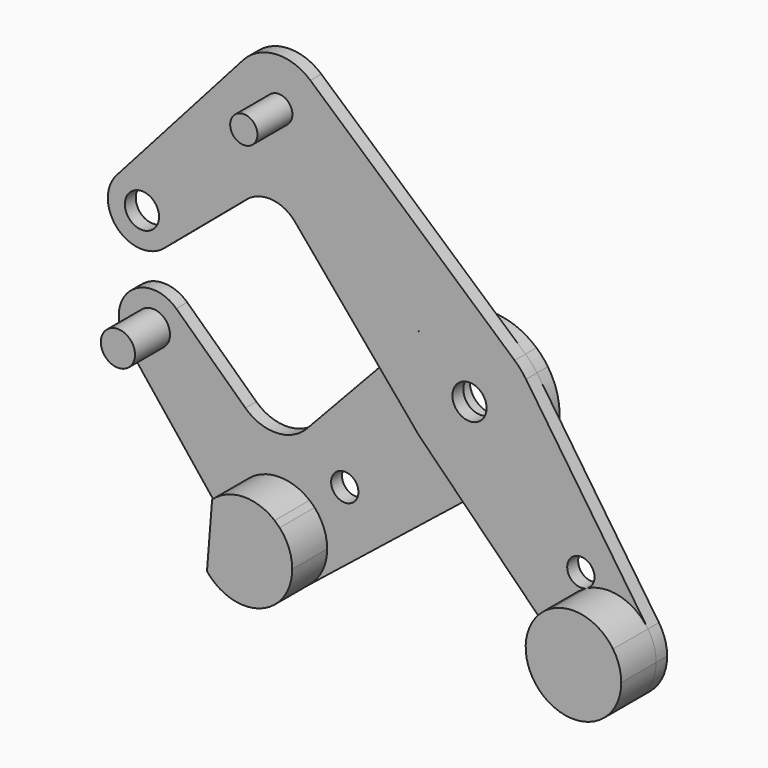
from build123d import *

# Parameters (mm, degrees)
F0_R     = 5.0192058749
F0_R_2   = 3.175
F0_R_3   = 3.9751
F1_DEPTH = 3.175
F2_DEPTH = 3.175
F4_DEPTH = 10.16
F3_R     = 3.175


with BuildPart() as f1:
    # F0 (on Front) → F1 (new body)
    with BuildSketch(Plane.XZ):
        with BuildLine():
            ThreePointArc((-82.0976157368, 19.6705019026), (-73.3433813158, 21.8204159254), (-68.2247198605, 14.4003043691))
            ThreePointArc((-68.2247198605, 14.4003043691), (-68.9624069762, 11.0586579663), (-71.0383515282, 8.338136476))
            Line((-71.0383515282, 8.338136476), (-51.7880564857, 24.6088796977))
            ThreePointArc((-51.7880564857, 24.6088796977), (-45.9772663096, 26.4581873904), (-40.5657834324, 23.6473023906))
            Line((-40.5657834324, 23.6473023906), (-21.1969376927, 0.5644108959))
            Line((-21.1969376927, 0.5644108959), (-12.0653977726, 10.3170636127))
            ThreePointArc((-12.0653977726, 10.3170636127), (-11.5882615315, 10.8502451437), (-11.0875850339, 11.361385616))
            ThreePointArc((-11.0875850339, 11.361385616), (-0.4022179292, 15.8699037722), (10.4978177794, 11.9084611462))
            Line((10.4978177794, 11.9084611462), (-37.0018676901, 53.7814652664))
            ThreePointArc((-37.0018676901, 53.7814652664), (-34.2224687823, 50.0187118354), (-33.2378401357, 45.445542464))
            ThreePointArc((-33.2378401357, 45.445542464), (-34.2706020977, 40.7672375001), (-37.1769244705, 36.9585074138))
            ThreePointArc((-37.1769244705, 36.9585074138), (-52.3033100669, 37.6842329403), (-52.6598943624, 52.8238190109))
            Line((-52.6598943624, 52.8238190109), (-82.0976157368, 19.6705019026))
        make_face()
        with BuildLine():
            ThreePointArc((13.1435640732, 8.9029404386), (11.9158307581, 10.4894519563), (10.4978177794, 11.9084611462))
            ThreePointArc((10.4978177794, 11.9084611462), (-0.4022179292, 15.8699037722), (-11.0875850339, 11.361385616))
            Line((-11.0875850339, 11.361385616), (-12.0653977726, 10.3170636127))
            ThreePointArc((-12.0653977726, 10.3170636127), (-15.8748278931, 0.0739213292), (-12.1609555345, -10.2042533038))
            ThreePointArc((-12.1609555345, -10.2042533038), (-11.7163487615, -10.7118064163), (-11.2505755155, -11.2000078379))
            ThreePointArc((-11.2505755155, -11.2000078379), (-2.5540891897, -15.6681924105), (7.1112039196, -14.1931815959))
            Line((7.1112039196, -14.1931815959), (12.2683930928, -10.0748278358))
            ThreePointArc((12.2683930928, -10.0748278358), (14.946176189, -5.3504618797), (15.875, 0))
            ThreePointArc((15.875, 0), (15.1767866273, 4.6562616624), (13.1435640732, 8.9029404386))
        make_face()
        Circle(F0_R, mode=Mode.SUBTRACT)
        with BuildLine():
            Line((41.5074995689, -32.9712253077), (13.1435640732, 8.9029404386))
            ThreePointArc((13.1435640732, 8.9029404386), (15.1767866273, 4.6562616624), (15.875, 0))
            ThreePointArc((15.875, 0), (14.946176189, -5.3504618797), (12.2683930928, -10.0748278358))
            ThreePointArc((12.2683930928, -10.0748278358), (9.9061801172, -12.404967573), (7.1112039196, -14.1931815959))
            Line((7.1112039196, -14.1931815959), (-1.4583015008, -21.036493657))
            Line((-1.4583015008, -21.036493657), (24.4316018567, -47.0432891013))
            ThreePointArc((24.4316018567, -47.0432891013), (21.3386504244, -37.419226343), (27.3222694847, -29.2715128306))
            ThreePointArc((27.3222694847, -29.2715128306), (35.111487806, -28.4504918444), (41.5074995689, -32.9712253077))
        make_face()
        with BuildLine():
            ThreePointArc((29.0730594479, -26.4338640203), (28.6001412256, -28.1010110043), (27.3222694847, -29.2715128306))
            ThreePointArc((27.3222694847, -29.2715128306), (23.1959776702, -24.7667170362), (29.0730594479, -26.4338640203))
        make_face(mode=Mode.SUBTRACT)
        with BuildLine():
            ThreePointArc((-37.0018676901, 53.7814652664), (-45.0287140261, 56.5373171243), (-52.6598943624, 52.8238190109))
            ThreePointArc((-52.6598943624, 52.8238190109), (-52.3033100669, 37.6842329403), (-37.1769244705, 36.9585074138))
            ThreePointArc((-37.1769244705, 36.9585074138), (-34.2706020977, 40.7672375001), (-33.2378401357, 45.445542464))
            ThreePointArc((-33.2378401357, 45.445542464), (-34.2224687823, 50.0187118354), (-37.0018676901, 53.7814652664))
        make_face()
        with Locations((-44.3503401357, 45.445542464)):
            Circle(F0_R_2, mode=Mode.SUBTRACT)
        with BuildLine():
            ThreePointArc((43.4195047176, -39.2032836147), (42.9307553567, -35.943900451), (41.5074995689, -32.9712253077))
            ThreePointArc((41.5074995689, -32.9712253077), (35.111487806, -28.4504918444), (27.3222694847, -29.2715128306))
            ThreePointArc((27.3222694847, -29.2715128306), (21.3386504244, -37.419226343), (24.4316018567, -47.0432891013))
            ThreePointArc((24.4316018567, -47.0432891013), (36.548009431, -49.4746776424), (43.4195047176, -39.2032836147))
        make_face()
        with Locations((32.3070047176, -39.2032836147)):
            Circle(F0_R_2, mode=Mode.SUBTRACT)
        with BuildLine():
            ThreePointArc((-71.0383515282, 8.338136476), (-68.9624069762, 11.0586579663), (-68.2247198605, 14.4003043691))
            ThreePointArc((-68.2247198605, 14.4003043691), (-73.3433813158, 21.8204159254), (-82.0976157368, 19.6705019026))
            ThreePointArc((-82.0976157368, 19.6705019026), (-81.8429126685, 8.8565118521), (-71.0383515282, 8.338136476))
        make_face()
        with Locations((-76.1622198605, 14.4003043691)):
            Circle(F0_R_3, mode=Mode.SUBTRACT)
        Circle(F0_R)
        Circle(F0_R_3, mode=Mode.SUBTRACT)
        with BuildLine():
            Line((-12.0653977726, 10.3170636127), (-21.1969376927, 0.5644108959))
            Line((-21.1969376927, 0.5644108959), (-12.1609555345, -10.2042533038))
            ThreePointArc((-12.1609555345, -10.2042533038), (-15.8748278931, 0.0739213292), (-12.0653977726, 10.3170636127))
        make_face()
        with BuildLine():
            ThreePointArc((7.1112039196, -14.1931815959), (-2.5540891897, -15.6681924105), (-11.2505755155, -11.2000078379))
            Line((-11.2505755155, -11.2000078379), (-1.4583015008, -21.036493657))
            Line((-1.4583015008, -21.036493657), (7.1112039196, -14.1931815959))
        make_face()
        with BuildLine():
            ThreePointArc((7.1112039196, -14.1931815959), (9.9061801172, -12.404967573), (12.2683930928, -10.0748278358))
            Line((12.2683930928, -10.0748278358), (7.1112039196, -14.1931815959))
        make_face()
    extrude(amount=F1_DEPTH)


with BuildPart() as f2:
    # F0 (on Front) → F2 (new body)
    with BuildSketch(Plane.XZ):
        with BuildLine():
            Line((-12.1609555345, -10.2042533038), (-21.1969376927, 0.5644108959))
            Line((-21.1969376927, 0.5644108959), (-40.3364825574, -19.8769753168))
            ThreePointArc((-40.3364825574, -19.8769753168), (-47.3959924461, -23.0718583423), (-54.6436949702, -20.3305510743))
            Line((-54.6436949702, -20.3305510743), (-70.7233597879, -5.2031589672))
            ThreePointArc((-70.7233597879, -5.2031589672), (-68.8761077945, -7.8353526389), (-68.2247198605, -10.9843964957))
            ThreePointArc((-68.2247198605, -10.9843964957), (-73.5513161122, -18.4802011802), (-82.382096331, -15.9156278776))
            Line((-82.382096331, -15.9156278776), (-55.4521060313, -49.883049003))
            ThreePointArc((-55.4521060313, -49.883049003), (-57.8225624257, -42.1079514503), (-54.2656608596, -34.7990762482))
            ThreePointArc((-54.2656608596, -34.7990762482), (-47.0832153617, -31.8719951294), (-39.7356616255, -34.3556982715))
            ThreePointArc((-39.7356616255, -34.3556982715), (-39.129874871, -34.8855925285), (-38.5640301524, -35.4579431814))
            ThreePointArc((-38.5640301524, -35.4579431814), (-36.3907609409, -38.9429503809), (-35.6317789726, -42.9793250684))
            ThreePointArc((-35.6317789726, -42.9793250684), (-36.7306543832, -47.7975175543), (-39.8099528906, -51.6628023694))
            Line((-39.8099528906, -51.6628023694), (-1.4583015008, -21.036493657))
            Line((-1.4583015008, -21.036493657), (-11.2505755155, -11.2000078379))
            ThreePointArc((-11.2505755155, -11.2000078379), (-11.7163487615, -10.7118064163), (-12.1609555345, -10.2042533038))
        make_face()
        with Locations((-31.5430394507, -29.0024485561)):
            Circle(F0_R_2, mode=Mode.SUBTRACT)
        with BuildLine():
            ThreePointArc((-68.2247198605, -10.9843964957), (-68.8761077945, -7.8353526389), (-70.7233597879, -5.2031589672))
            ThreePointArc((-70.7233597879, -5.2031589672), (-81.5326708837, -5.1395558599), (-82.382096331, -15.9156278776))
            ThreePointArc((-82.382096331, -15.9156278776), (-73.5513161122, -18.4802011802), (-68.2247198605, -10.9843964957))
        make_face()
        with Locations((-76.1622198605, -10.9843964957)):
            Circle(F0_R_3, mode=Mode.SUBTRACT)
        with BuildLine():
            ThreePointArc((-55.4521060313, -49.883049003), (-48.0005460381, -54.0205862875), (-39.8099528906, -51.6628023694))
            ThreePointArc((-39.8099528906, -51.6628023694), (-36.7306543832, -47.7975175543), (-35.6317789726, -42.9793250684))
            ThreePointArc((-35.6317789726, -42.9793250684), (-36.3907609409, -38.9429503809), (-38.5640301524, -35.4579431814))
            Line((-38.5640301524, -35.4579431814), (-39.7356616255, -34.3556982715))
            ThreePointArc((-39.7356616255, -34.3556982715), (-47.0832153617, -31.8719951294), (-54.2656608596, -34.7990762482))
            Line((-54.2656608596, -34.7990762482), (-55.4521060313, -49.883049003))
        make_face()
        with Locations((-46.7442789726, -42.9793250684)):
            Circle(F0_R_3, mode=Mode.SUBTRACT)
        with BuildLine():
            ThreePointArc((13.1435640732, 8.9029404386), (11.9158307581, 10.4894519563), (10.4978177794, 11.9084611462))
            ThreePointArc((10.4978177794, 11.9084611462), (-0.4022179292, 15.8699037722), (-11.0875850339, 11.361385616))
            Line((-11.0875850339, 11.361385616), (-12.0653977726, 10.3170636127))
            ThreePointArc((-12.0653977726, 10.3170636127), (-15.8748278931, 0.0739213292), (-12.1609555345, -10.2042533038))
            ThreePointArc((-12.1609555345, -10.2042533038), (-11.7163487615, -10.7118064163), (-11.2505755155, -11.2000078379))
            ThreePointArc((-11.2505755155, -11.2000078379), (-2.5540891897, -15.6681924105), (7.1112039196, -14.1931815959))
            Line((7.1112039196, -14.1931815959), (12.2683930928, -10.0748278358))
            ThreePointArc((12.2683930928, -10.0748278358), (14.946176189, -5.3504618797), (15.875, 0))
            ThreePointArc((15.875, 0), (15.1767866273, 4.6562616624), (13.1435640732, 8.9029404386))
        make_face()
        Circle(F0_R, mode=Mode.SUBTRACT)
        with BuildLine():
            ThreePointArc((7.1112039196, -14.1931815959), (-2.5540891897, -15.6681924105), (-11.2505755155, -11.2000078379))
            Line((-11.2505755155, -11.2000078379), (-1.4583015008, -21.036493657))
            Line((-1.4583015008, -21.036493657), (7.1112039196, -14.1931815959))
        make_face()
        with BuildLine():
            Line((-12.0653977726, 10.3170636127), (-21.1969376927, 0.5644108959))
            Line((-21.1969376927, 0.5644108959), (-12.1609555345, -10.2042533038))
            ThreePointArc((-12.1609555345, -10.2042533038), (-15.8748278931, 0.0739213292), (-12.0653977726, 10.3170636127))
        make_face()
        with BuildLine():
            ThreePointArc((-54.2656608596, -34.7990762482), (-57.8225624257, -42.1079514503), (-55.4521060313, -49.883049003))
            Line((-55.4521060313, -49.883049003), (-54.2656608596, -34.7990762482))
        make_face()
    extrude(amount=-F2_DEPTH)


with BuildPart() as f4:
    # F0 (on Front) → F4 (new body)
    with BuildSketch(Plane.XZ):
        with Locations((-76.1622198605, -10.9843964957)):
            Circle(F0_R_3)
    extrude(amount=F4_DEPTH)


with BuildPart() as f4b:
    # F0 (on Front) → F4, piece 2 (new body)
    with BuildSketch(Plane.XZ):
        with BuildLine():
            ThreePointArc((-55.4521060313, -49.883049003), (-48.0005460381, -54.0205862875), (-39.8099528906, -51.6628023694))
            ThreePointArc((-39.8099528906, -51.6628023694), (-36.7306543832, -47.7975175543), (-35.6317789726, -42.9793250684))
            ThreePointArc((-35.6317789726, -42.9793250684), (-36.3907609409, -38.9429503809), (-38.5640301524, -35.4579431814))
            Line((-38.5640301524, -35.4579431814), (-39.7356616255, -34.3556982715))
            ThreePointArc((-39.7356616255, -34.3556982715), (-47.0832153617, -31.8719951294), (-54.2656608596, -34.7990762482))
            Line((-54.2656608596, -34.7990762482), (-55.4521060313, -49.883049003))
        make_face()
        with Locations((-46.7442789726, -42.9793250684)):
            Circle(F0_R_3, mode=Mode.SUBTRACT)
        with Locations((-46.7442789726, -42.9793250684)):
            Circle(F0_R_3)
    extrude(amount=F4_DEPTH)


with BuildPart() as f4c:
    # F3 (on face) → F4, piece 3 (new body)
    with BuildSketch(Plane.XZ.offset(3.175)):
        with BuildLine():
            ThreePointArc((24.4316018567, -47.0432891013), (36.548009431, -49.4746776424), (43.4195047176, -39.2032836147))
            ThreePointArc((43.4195047176, -39.2032836147), (42.9307553567, -35.943900451), (41.5074995689, -32.9712253077))
            ThreePointArc((41.5074995689, -32.9712253077), (35.1114877719, -28.4504918355), (27.3222694218, -29.2715128622))
            ThreePointArc((27.3222694218, -29.2715128622), (21.3386504188, -37.4192263777), (24.4316018567, -47.0432891013))
        make_face()
        with Locations((32.3070047176, -39.2032836147)):
            Circle(F3_R, mode=Mode.SUBTRACT)
        with Locations((32.3070047176, -39.2032836147)):
            Circle(F3_R)
    extrude(amount=F4_DEPTH)


with BuildPart() as f4d:
    # F3 (on face) → F4, piece 4 (new body)
    with BuildSketch(Plane.XZ.offset(3.175)):
        with Locations((-44.3503401357, 45.445542464)):
            Circle(F3_R)
    extrude(amount=F4_DEPTH)


solid = Compound([f1.part, f2.part, f4.part, f4b.part, f4c.part, f4d.part])
